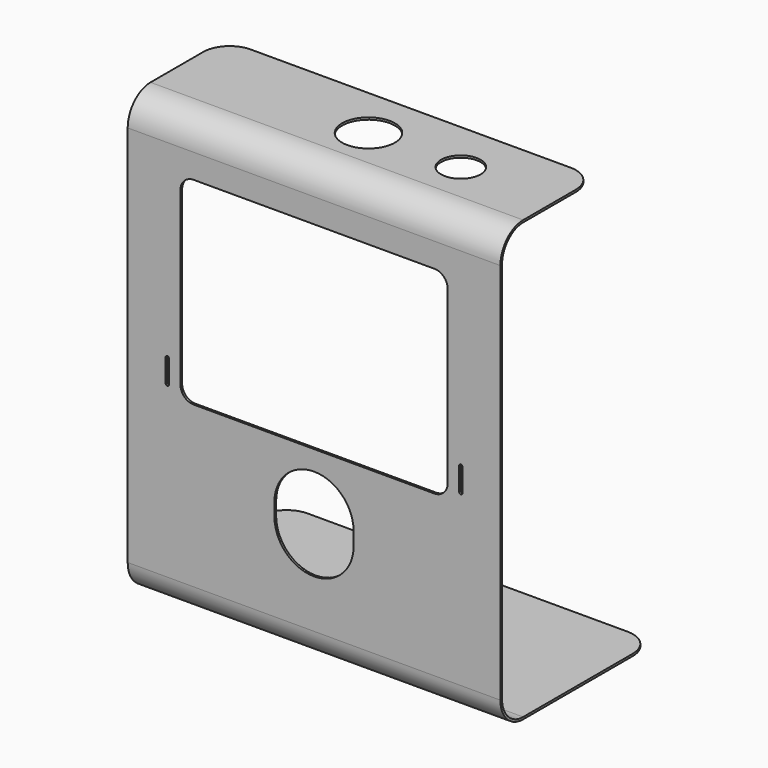
from build123d import *

# Parameters (mm, degrees)
F1_DEPTH  = 179.3875
F2_R      = 25.4
F4_DEPTH  = 2.032
F6_DEPTH  = 2.032
F8_DEPTH  = 2.54
F9_R      = 25.4
F10_DEPTH = 25.4
F11_R     = 19.05
F12_DEPTH = 25.4


with BuildPart() as f1:
    # F0 (on Right) → F1 (new body, symmetric)
    with BuildSketch(Plane.YZ):
        with BuildLine():
            Line((0, -184.15), (0, 184.15))
            ThreePointArc((0, 184.15), (7.439488, 202.110512), (25.4, 209.55))
            Line((25.4, 209.55), (114.3, 209.55))
            Line((114.3, 209.55), (114.3, 211.582))
            Line((114.3, 211.582), (25.4, 211.582))
            ThreePointArc((25.4, 211.582), (6.002647, 203.547353), (-2.032, 184.15))
            Line((-2.032, 184.15), (-2.032, -184.15))
            ThreePointArc((-2.032, -184.15), (6.002647, -203.547353), (25.4, -211.582))
            Line((25.4, -211.582), (182.88, -211.582))
            Line((182.88, -211.582), (182.88, -209.55))
            Line((182.88, -209.55), (25.4, -209.55))
            ThreePointArc((25.4, -209.55), (7.439488, -202.110512), (0, -184.15))
        make_face()
    extrude(amount=F1_DEPTH, both=True)

    # F2
    f2_edges = [f1.edges().sort_by_distance(p)[0] for p in [
        (179.3875, 114.3, 210.566),
        (-179.3875, 114.3, 210.566),
        (-179.3875, 182.88, -210.566),
        (179.3875, 182.88, -210.566),
    ]]
    fillet(f2_edges, radius=F2_R)

    # F3 (on face) → F4 (cut)
    with BuildSketch(Plane.XZ.offset(2.032)):
        with BuildLine():
            Line((115.8875, 160.782), (-115.8875, 160.782))
            ThreePointArc((-115.8875, 160.782), (-124.867756, 157.062256), (-128.5875, 148.082))
            Line((-128.5875, 148.082), (-128.5875, -17.018))
            ThreePointArc((-128.5875, -17.018), (-124.867756, -25.998256), (-115.8875, -29.718))
            Line((-115.8875, -29.718), (115.8875, -29.718))
            ThreePointArc((115.8875, -29.718), (124.867756, -25.998256), (128.5875, -17.018))
            Line((128.5875, -17.018), (128.5875, 148.082))
            ThreePointArc((128.5875, 148.082), (124.867756, 157.062256), (115.8875, 160.782))
        make_face()
    extrude(amount=-F4_DEPTH, mode=Mode.SUBTRACT)

    # F5 (on face) → F6 (cut)
    with BuildSketch(Plane.XZ.offset(2.032)):
        with BuildLine():
            Line((38.1, -99.568), (38.1, -86.868))
            ThreePointArc((38.1, -86.868), (0, -48.768), (-38.1, -86.868))
            Line((-38.1, -86.868), (-38.1, -99.568))
            ThreePointArc((-38.1, -99.568), (0, -137.668), (38.1, -99.568))
        make_face()
    extrude(amount=-F6_DEPTH, mode=Mode.SUBTRACT)

    # F7 (on face) → F8 (cut)
    with BuildSketch(Plane.XZ.offset(2.032)):
        with BuildLine():
            ThreePointArc((142.875, 1.7145), (141.2875, 3.302), (139.7, 1.7145))
            Line((139.7, 1.7145), (139.7, -20.5105))
            ThreePointArc((139.7, -20.5105), (141.2875, -22.098), (142.875, -20.5105))
            Line((142.875, -20.5105), (142.875, 1.7145))
        make_face()
        with BuildLine():
            ThreePointArc((-139.7, 1.7145), (-141.2875, 3.302), (-142.875, 1.7145))
            Line((-142.875, 1.7145), (-142.875, -20.5105))
            ThreePointArc((-142.875, -20.5105), (-141.2875, -22.098), (-139.7, -20.5105))
            Line((-139.7, -20.5105), (-139.7, 1.7145))
        make_face()
    extrude(amount=-F8_DEPTH, mode=Mode.SUBTRACT)

    # F9 (on face) → F10 (cut)
    with BuildSketch(Plane.XY.offset(211.582)):
        with Locations((0, 63.5)):
            Circle(F9_R)
    extrude(amount=-F10_DEPTH, mode=Mode.SUBTRACT)

    # F11 (on face) → F12 (cut)
    with BuildSketch(Plane.XY.offset(211.582)):
        with Locations((88.9, 63.5)):
            Circle(F11_R)
    extrude(amount=-F12_DEPTH, mode=Mode.SUBTRACT)


solid = f1.part
